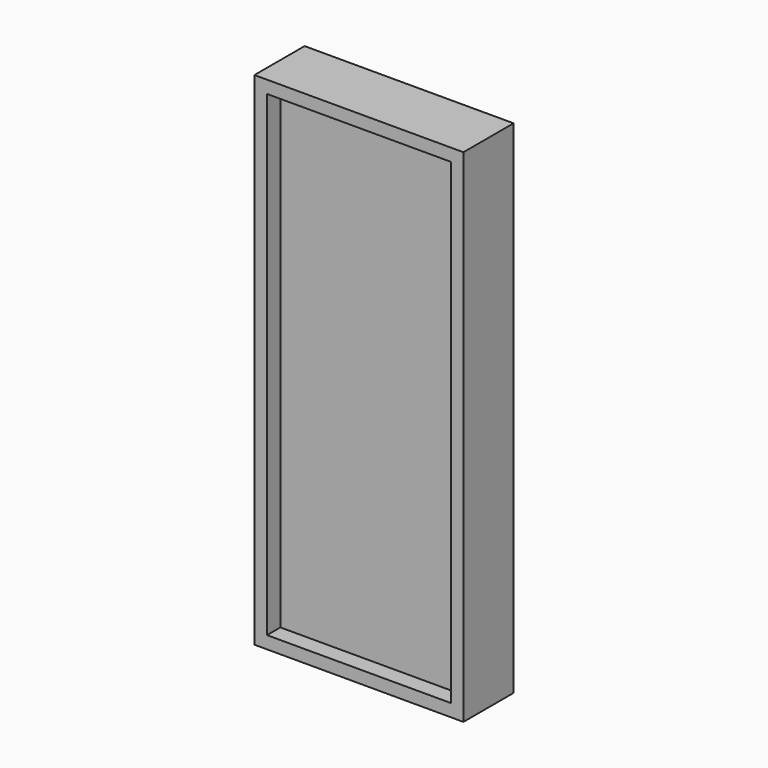
from build123d import *

# Parameters (mm, degrees)
SKETCH_W     = 50
SKETCH_H     = 120
PAD_DEPTH    = 7.5
SKETCH001_W  = 44
SKETCH001_H  = 114
POCKET_DEPTH = 4


with BuildPart() as part:
    # Sketch → Pad (new body, symmetric)
    with BuildSketch(Plane.XZ):
        with Locations((0, 60)):
            Rectangle(SKETCH_W, SKETCH_H)
    extrude(amount=PAD_DEPTH, both=True)

    # Sketch001 (on Face6 of Pad) → Pocket (cut)
    with BuildSketch(Plane.XZ.offset(7.5)):
        with Locations((0, 60)):
            Rectangle(SKETCH001_W, SKETCH001_H)
    extrude(amount=-POCKET_DEPTH, mode=Mode.SUBTRACT)


solid = part.part
